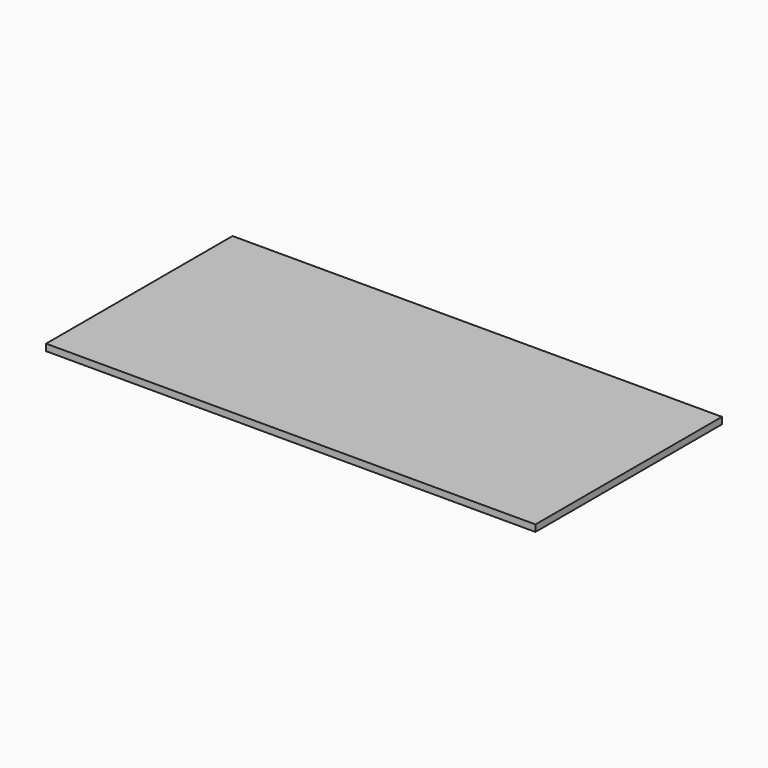
from build123d import *

# Parameters (mm, degrees)
F0_W     = 1470
F0_H     = 700
F1_DEPTH = 10
F2_W     = 30
F2_H     = 30
F3_DEPTH = 270
F4_W     = 30
F4_H     = 30
F5_DEPTH = 655


with BuildPart() as f1:
    # F0 (on Top) → F1 (new body, symmetric)
    with BuildSketch(Plane.XY):
        Rectangle(F0_W, F0_H)
    extrude(amount=F1_DEPTH, both=True)


with BuildPart() as f3:
    # F2 (on Front) → F3 (new body, symmetric)
    with BuildSketch(Plane.XZ):
        with Locations((670, -25)):
            Rectangle(F2_W, F2_H)
    extrude(amount=F3_DEPTH, both=True)


with BuildPart() as f5:
    # F4 (on Right) → F5 (new body, symmetric)
    with BuildSketch(Plane.YZ):
        with Locations((-285, -25)):
            Rectangle(F4_W, F4_H)
    extrude(amount=F5_DEPTH, both=True)


solid = Compound([f1.part, f3.part, f5.part])
